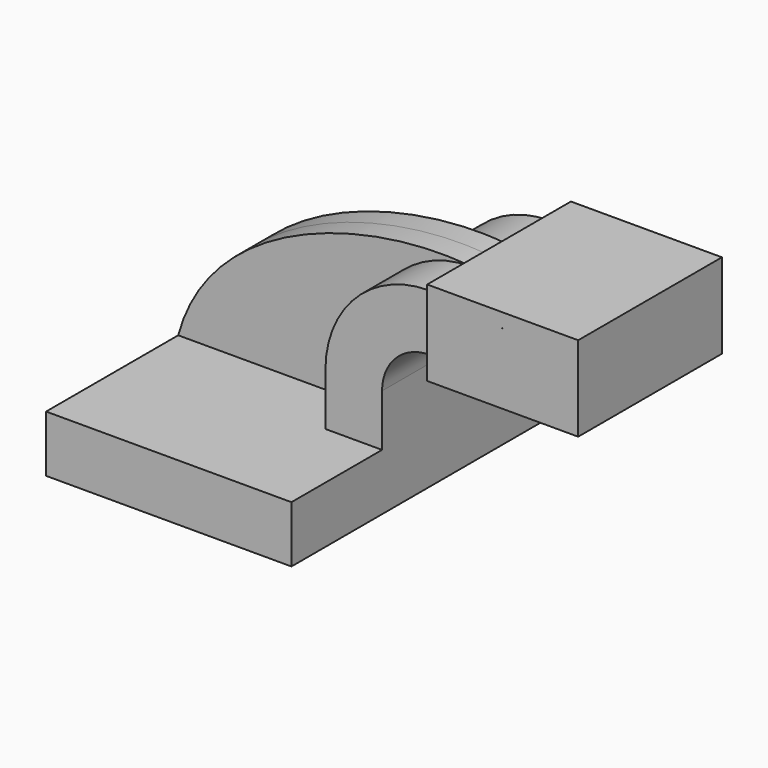
from build123d import *

# Parameters (mm, degrees)
F1_DEPTH = 63.5
F2_DEPTH = 7.9375
F3_DEPTH = 25.4
F4_DEPTH = 30.226


with BuildPart() as f1:
    # F0 (on Front) → F1 (new body, symmetric)
    with BuildSketch(Plane.XZ):
        Polygon((-41.275, 9.525), (-41.275, -9.525), (41.275, -9.525), (41.275, 9.525), (22.225, 9.525), align=None)
    extrude(amount=F1_DEPTH, both=True)

    # F0 (on Front) → F2 (join, symmetric)
    with BuildSketch(Plane.XZ):
        with BuildLine():
            add(Edge.make_bspline(
                [(-41.275, 9.525), (-29.9963708967, 51.1887520552), (24.8447079211, 65.5416920781), (57.15, 61.9252)],
                knots=[0, 0, 0, 0, 111.5045361635, 111.5045361635, 111.5045361635, 111.5045361635], degree=3))
            Line((-41.275, 9.525), (22.225, 9.525))
            Line((22.225, 9.525), (22.225, 27.0002))
            ThreePointArc((22.225, 27.0002), (32.4542956671, 51.6959043329), (57.15, 61.9252))
        make_face()
    extrude(amount=F2_DEPTH, both=True)

    # F0 (on Front) → F3 (join, symmetric)
    with BuildSketch(Plane.XZ):
        with BuildLine():
            Line((22.225, 9.525), (41.275, 9.525))
            Line((41.275, 9.525), (41.275, 27.0002))
            ThreePointArc((41.275, 27.0002), (45.9246798487, 38.2255201513), (57.15, 42.8752))
            Line((57.15, 42.8752), (60.325, 42.8752))
            Line((60.325, 42.8752), (60.325, 61.9252))
            Line((60.325, 61.9252), (57.15, 61.9252))
            ThreePointArc((57.15, 61.9252), (32.4542956671, 51.6959043329), (22.225, 27.0002))
            Line((22.225, 27.0002), (22.225, 9.525))
        make_face()
    extrude(amount=F3_DEPTH, both=True)

    # F0 (on Front) → F4 (join, symmetric)
    with BuildSketch(Plane.XZ):
        Polygon((85.6958447059, 42.8752), (60.325, 42.8752), (60.325, 38.1), (85.725, 38.1), align=None)
        Polygon((60.325, 66.675), (60.325, 61.9252), (85.5795336922, 61.9252), (85.5505334795, 66.675), align=None)
        Polygon((85.5795336922, 61.9252), (60.325, 61.9252), (60.325, 42.8752), (85.6958447059, 42.8752), align=None)
        Polygon((85.5505334795, 66.675), (85.5795336922, 61.9252), (85.6267288327, 61.9252), (85.7430398464, 42.8752), (85.6958447059, 42.8752), (85.725, 38.1), (111.125, 38.1), (111.125, 66.675), align=None)
    extrude(amount=F4_DEPTH, both=True)


solid = f1.part
